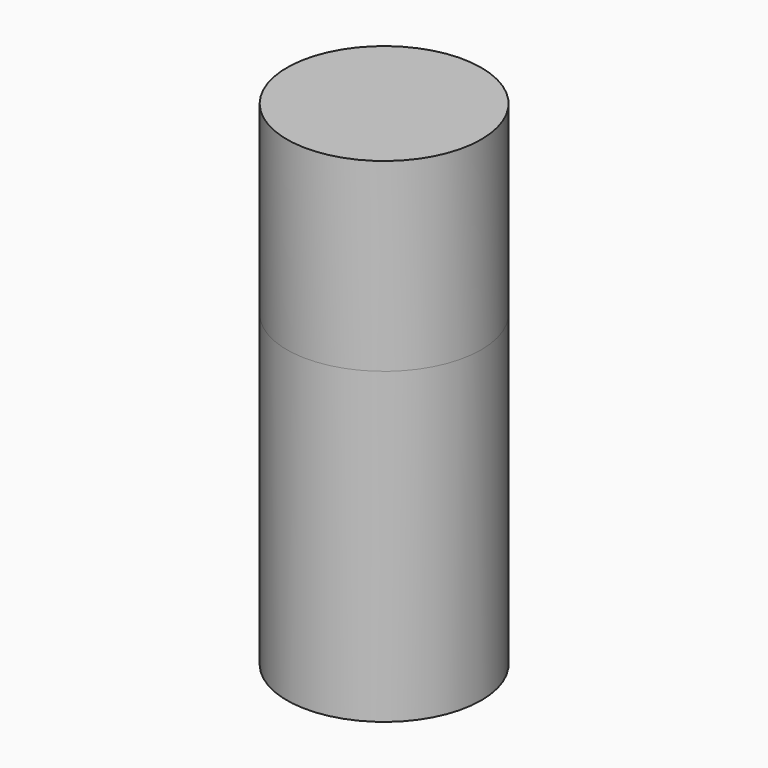
from build123d import *

# Parameters (mm, degrees)
F0_R     = 40
F1_DEPTH = 127
F2_DEPTH = 76.2


with BuildPart() as f1:
    # F0 (on Top) → F1 (new body)
    with BuildSketch(Plane.XY):
        Circle(F0_R)
    extrude(amount=-F1_DEPTH)

    # F0 (on Top) → F2 (join)
    with BuildSketch(Plane.XY):
        Circle(F0_R)
        Circle(F0_R)
    extrude(amount=F2_DEPTH)


solid = f1.part
